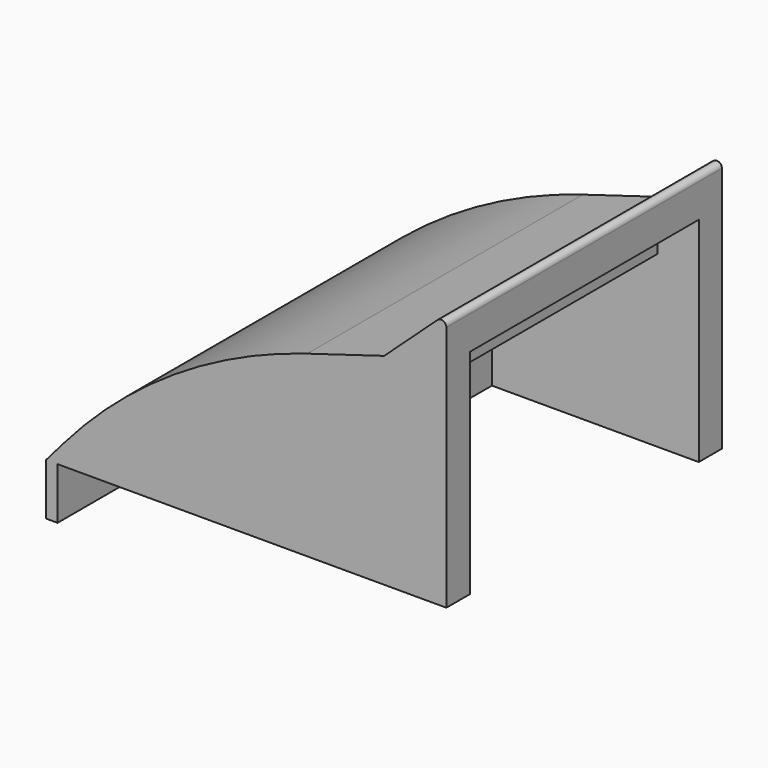
from build123d import *

# Parameters (mm, degrees)
F0_W      = 38.7000013143
F0_H      = 33.3000021055
F1_DEPTH  = 25
F3_DEPTH  = 33.3010021055
F4_R      = 50
F5_R      = 0.5
F6_W      = 27.6561714709
F6_H      = 20.6264536828
F7_DEPTH  = 4
F8_W      = 27.6561714709
F8_H      = 16.4114236832
F9_DEPTH  = 10
F10_W     = 27.6561714709
F10_H     = 13.9069892466
F11_DEPTH = 6
F12_W     = 1.1095879599
F12_H     = 33.3000021055
F13_DEPTH = 5


with BuildPart() as f1:
    # F0 (on Top) → F1 (new body)
    with BuildSketch(Plane.XY):
        with Locations((4.9499990419, -5.3999996744)):
            Rectangle(F0_W, F0_H)
    extrude(amount=F1_DEPTH)

    # F2 (on face) → F3 (cut, through all)
    with BuildSketch(Plane.XZ.offset(22.0500007272)):
        Polygon((-14.4000016153, 25), (-14.4000016153, 0), (-3.1048920937, 13.0713665858), (18.2830113918, 19.4805841893), (24.299999699, 25), align=None)
    extrude(amount=-F3_DEPTH, mode=Mode.SUBTRACT)

    # F4
    f4_edges = [f1.edges().sort_by_distance(p)[0] for p in [
        (-3.104892, -5.4, 13.071367),
    ]]
    fillet(f4_edges, radius=F4_R)

    # F5
    f5_edges = [f1.edges().sort_by_distance(p)[0] for p in [
        (24.3, -5.4, 25),
    ]]
    fillet(f5_edges, radius=F5_R)

    # F6 (on face) → F7 (cut)
    with BuildSketch(Plane.YZ.offset(24.299999699)):
        with Locations((-5.37536107, 10.3132268414)):
            Rectangle(F6_W, F6_H)
    extrude(amount=-F7_DEPTH, mode=Mode.SUBTRACT)

    # F8 (on face) → F9 (cut)
    with BuildSketch(Plane.YZ.offset(20.299999699)):
        with Locations((-5.37536107, 8.2057118416)):
            Rectangle(F8_W, F8_H)
    extrude(amount=-F9_DEPTH, mode=Mode.SUBTRACT)

    # F10 (on face) → F11 (cut)
    with BuildSketch(Plane.YZ.offset(10.299999699)):
        with Locations((-5.37536107, 6.9534946233)):
            Rectangle(F10_W, F10_H)
    extrude(amount=-F11_DEPTH, mode=Mode.SUBTRACT)

    # F12 (on face) → F13 (join)
    with BuildSketch(Plane(origin=(0, 0, 0), x_dir=(1, 0, 0), z_dir=(0, 0, -1))):
        with Locations((-13.8452076353, 5.3999996744)):
            Rectangle(F12_W, F12_H)
    extrude(amount=F13_DEPTH)


solid = f1.part
